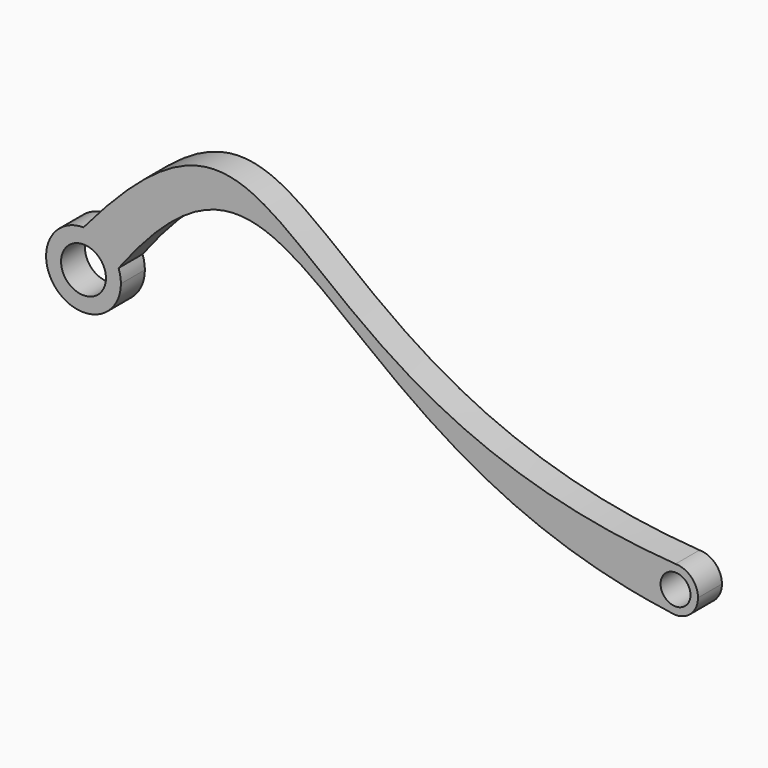
from build123d import *

# Parameters (mm, degrees)
F0_R     = 10
F1_DEPTH = 20


with BuildPart() as f1:
    # F0 (on Front) → F1 (new body)
    with BuildSketch(Plane.XZ):
        with BuildLine():
            ThreePointArc((-132.281856, -12.489327), (-153.810953, 7.084686), (-125.589485, 0))
            ThreePointArc((-125.589485, 0), (-125.6876, -1.712835), (-125.980659, -3.403263))
            add(Edge.make_bspline(
                [(-125.980659, -3.403263), (-122.970671, 0.848243), (-120.027402, 4.87458), (-117.146056, 8.683642)],
                knots=[14.303636, 14.303636, 14.303636, 14.303636, 23.46248, 23.46248, 23.46248, 23.46248], degree=3))
            ThreePointArc((-117.146056, 8.683642), (-126.308222, 20.519394), (-140.589485, 25))
            ThreePointArc((-140.589485, 25), (-165.589485, 0), (-140.589485, -25))
            add(Edge.make_bspline(
                [(-140.589485, -25), (-137.764584, -20.649885), (-134.996444, -16.481421), (-132.281856, -12.489327)],
                knots=[0, 0, 0, 0, 8.009951, 8.009951, 8.009951, 8.009951], degree=3))
        make_face()
        with BuildLine():
            ThreePointArc((-125.980659, -3.403263), (-128.263491, -8.548092), (-132.281856, -12.489327))
            add(Edge.make_bspline(
                [(-140.589485, -25), (-137.764584, -20.649885), (-134.996444, -16.481421), (-132.281856, -12.489327)],
                knots=[0, 0, 0, 0, 8.009951, 8.009951, 8.009951, 8.009951], degree=3))
            ThreePointArc((-140.589485, -25), (-122.911816, -17.67767), (-115.589485, 0))
            ThreePointArc((-115.589485, 0), (-115.981705, 4.411024), (-117.146056, 8.683642))
            add(Edge.make_bspline(
                [(-125.980659, -3.403263), (-122.970671, 0.848243), (-120.027402, 4.87458), (-117.146056, 8.683642)],
                knots=[14.303636, 14.303636, 14.303636, 14.303636, 23.46248, 23.46248, 23.46248, 23.46248], degree=3))
        make_face()
        with BuildLine():
            ThreePointArc((-140.589485, 25), (-126.308222, 20.519394), (-117.146056, 8.683642))
            add(Edge.make_bspline(
                [(-117.146056, 8.683642), (0.242464, 163.86811), (14.850867, -41.584187), (251.092311, -73.850104)],
                knots=[23.46248, 23.46248, 23.46248, 23.46248, 396.601676, 396.601676, 396.601676, 396.601676], degree=3))
            ThreePointArc((251.092311, -73.850104), (240.109803, -57.401745), (254.981041, -44.362945))
            add(Edge.make_bspline(
                [(-140.589485, 25), (0, 191.496193), (-23.188902, -25), (254.981041, -44.362945)],
                knots=[0, 0, 0, 0, 401.60585, 401.60585, 401.60585, 401.60585], degree=3))
        make_face()
        with BuildLine():
            add(Edge.make_bspline(
                [(251.092311, -73.850104), (252.381932, -74.026241), (253.678158, -74.197217), (254.981041, -74.362945)],
                knots=[396.601676, 396.601676, 396.601676, 396.601676, 398.63861, 398.63861, 398.63861, 398.63861], degree=3))
            ThreePointArc((251.092311, -73.850104), (253.019841, -74.234182), (254.981041, -74.362945))
        make_face()
        with BuildLine():
            ThreePointArc((254.981041, -44.362945), (240.109803, -57.401745), (251.092311, -73.850104))
            add(Edge.make_bspline(
                [(251.092311, -73.850104), (252.381932, -74.026241), (253.678158, -74.197217), (254.981041, -74.362945)],
                knots=[396.601676, 396.601676, 396.601676, 396.601676, 398.63861, 398.63861, 398.63861, 398.63861], degree=3))
            ThreePointArc((254.981041, -74.362945), (265.587642, -69.969546), (269.981041, -59.362945))
            ThreePointArc((269.981041, -59.362945), (265.587642, -48.756343), (254.981041, -44.362945))
        make_face()
        with Locations((254.981041, -59.362945)):
            Circle(F0_R, mode=Mode.SUBTRACT)
    extrude(amount=F1_DEPTH)


solid = f1.part
